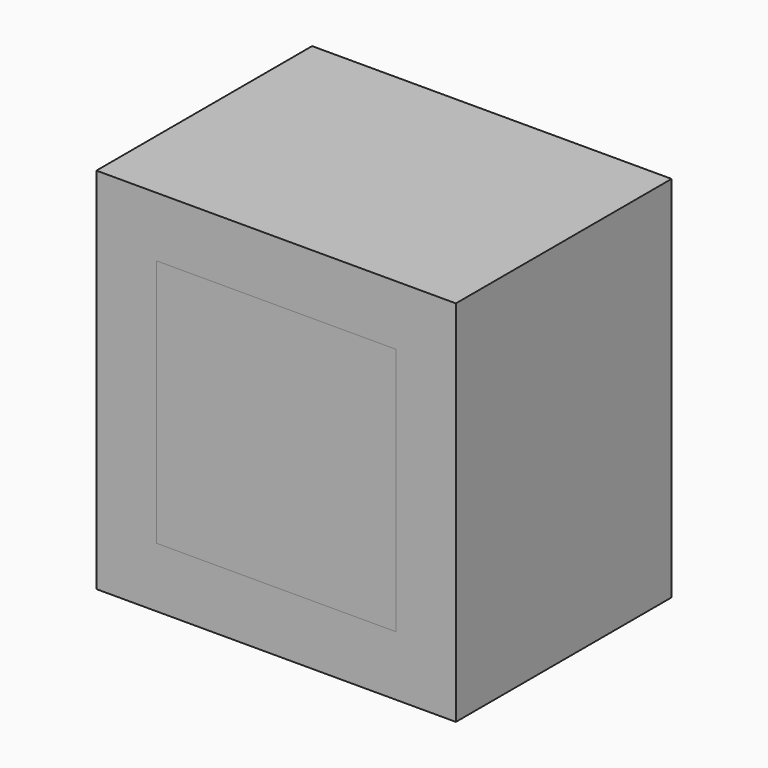
from build123d import *

# Parameters (mm, degrees)
F1_W     = 80
F1_H     = 40
F1_H_2   = 3
F2_DEPTH = 100
F4_W     = 120
F4_H     = 123
F4_W_2   = 80
F4_H_2   = 83
F5_DEPTH = 90


with BuildPart() as f2:
    # F1 (on offset) → F2 (new body)
    with BuildSketch(Plane.XZ.offset(21)):
        with Locations((0, -21.5)):
            Rectangle(F1_W, F1_H)
        Rectangle(F1_W, F1_H_2)
        with Locations((0, 21.5)):
            Rectangle(F1_W, F1_H)
    extrude(amount=F2_DEPTH)


with BuildPart() as f5:
    # F4 (on offset) → F5 (new body)
    with BuildSketch(Plane.XZ.offset(31)):
        Rectangle(F4_W, F4_H)
        Rectangle(F4_W_2, F4_H_2, mode=Mode.SUBTRACT)
    extrude(amount=F5_DEPTH)


solid = Compound([f2.part, f5.part])
